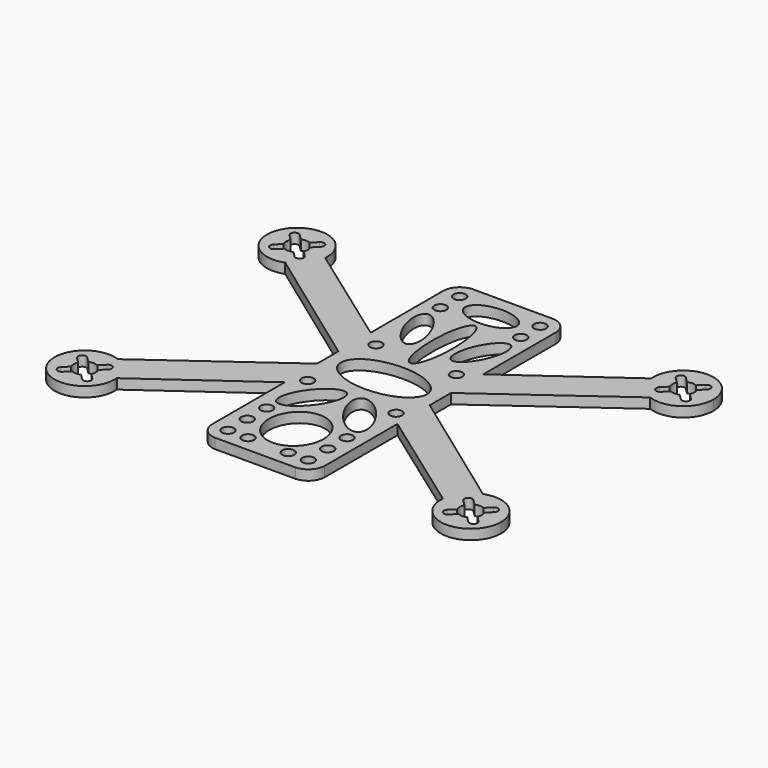
from build123d import *

# Parameters (mm, degrees)
F0_R     = 1.5
F1_DEPTH = 2.5


with BuildPart() as f1:
    # F0 (on Top) → F1 (new body)
    with BuildSketch(Plane.XY):
        with BuildLine():
            ThreePointArc((45.354794, 25.98196), (52.266788, 26.831976), (55.5, 33))
            ThreePointArc((55.5, 33), (47.680315, 40.493184), (40.527253, 32.361211))
            ThreePointArc((40.527253, 32.361211), (42.019452, 28.47418), (45.354794, 25.98196))
        make_face()
        with BuildLine():
            ThreePointArc((50.518529, 34.104315), (50.69151, 33.564157), (50.75, 33))
            ThreePointArc((50.75, 33), (50.69151, 32.435843), (50.518529, 31.895685))
            Line((50.518529, 31.895685), (51.889087, 30.525126))
            ThreePointArc((51.889087, 30.525126), (52.10586, 30.200703), (52.181981, 29.818019))
            ThreePointArc((52.181981, 29.818019), (51.564664, 28.89414), (50.474874, 29.110913))
            Line((50.474874, 29.110913), (49.104315, 30.481471))
            ThreePointArc((49.104315, 30.481471), (48, 30.25), (46.895685, 30.481471))
            Line((46.895685, 30.481471), (45.525126, 29.110913))
            ThreePointArc((45.525126, 29.110913), (44.110913, 29.110913), (44.110913, 30.525126))
            Line((44.110913, 30.525126), (45.481471, 31.895685))
            ThreePointArc((45.481471, 31.895685), (45.25, 33), (45.481471, 34.104315))
            Line((45.481471, 34.104315), (44.110913, 35.474874))
            ThreePointArc((44.110913, 35.474874), (44.110913, 36.889087), (45.525126, 36.889087))
            Line((45.525126, 36.889087), (46.895685, 35.518529))
            ThreePointArc((46.895685, 35.518529), (48, 35.75), (49.104315, 35.518529))
            Line((49.104315, 35.518529), (50.474874, 36.889087))
            ThreePointArc((50.474874, 36.889087), (51.564664, 37.10586), (52.181981, 36.181981))
            ThreePointArc((52.181981, 36.181981), (52.10586, 35.799297), (51.889087, 35.474874))
            Line((51.889087, 35.474874), (50.518529, 34.104315))
        make_face(mode=Mode.SUBTRACT)
        with BuildLine():
            ThreePointArc((45.354794, 25.98196), (42.019452, 28.47418), (40.527253, 32.361211))
            Line((40.527253, 32.361211), (14, 13.340587))
            Line((14, 13.340587), (14, 3.308062))
            Line((14, 3.308062), (45.354794, 25.98196))
        make_face()
        with BuildLine():
            Line((14, 3.308062), (14, 13.340587))
            Line((14, 13.340587), (14, 36))
            ThreePointArc((14, 36), (12.779371, 38.779371), (10, 40))
            Line((10, 40), (-10, 40))
            ThreePointArc((-10, 40), (-12.779371, 38.779371), (-14, 36))
            Line((-14, 36), (-14, 13.340587))
            Line((-14, 13.340587), (-14, 3.308062))
            Line((-14, 3.308062), (-14, -3.308062))
            Line((-14, -3.308062), (-14, -13.340587))
            Line((-14, -13.340587), (-14, -36))
            ThreePointArc((-14, -36), (-12.779371, -38.779371), (-10, -40))
            Line((-10, -40), (10, -40))
            ThreePointArc((10, -40), (12.779371, -38.779371), (14, -36))
            Line((14, -36), (14, -13.340587))
            Line((14, -13.340587), (14, -3.308062))
            Line((14, -3.308062), (14, 3.308062))
        make_face()
        with Locations((-10, -36)):
            Circle(F0_R, mode=Mode.SUBTRACT)
        with Locations((-5, -36)):
            Circle(F0_R, mode=Mode.SUBTRACT)
        with Locations((-10, -30)):
            Circle(F0_R, mode=Mode.SUBTRACT)
        with Locations((-10, -24)):
            Circle(F0_R, mode=Mode.SUBTRACT)
        with BuildLine():
            add(Edge.make_bspline(
                [(-1.79554, -9.31072), (-6.273685, -6.057535), (-10.297803, -16.30567), (-14.321922, -26.553804), (-5.819658, -19.558855), (2.682605, -12.563906), (-1.79554, -9.31072)],
                knots=[0, 0, 0, 2.094395, 2.094395, 4.18879, 4.18879, 6.283185, 6.283185, 6.283185], degree=2, weights=[1, 0.5, 1, 0.5, 1, 0.5, 1]))
        make_face(mode=Mode.SUBTRACT)
        with Locations((-11, -10)):
            Circle(F0_R, mode=Mode.SUBTRACT)
        with Locations((5, -36)):
            Circle(F0_R, mode=Mode.SUBTRACT)
        with Locations((10, -36)):
            Circle(F0_R, mode=Mode.SUBTRACT)
        with BuildLine():
            add(Edge.make_bspline(
                [(6.788831, -27.235288), (6.788831, -14.395384), (-3.394416, -20.815336), (-13.577662, -27.235288), (-3.394416, -33.65524), (6.788831, -40.075193), (6.788831, -27.235288)],
                knots=[4.712389, 4.712389, 4.712389, 6.806784, 6.806784, 8.901179, 8.901179, 10.995574, 10.995574, 10.995574], degree=2, weights=[1, 0.5, 1, 0.5, 1, 0.5, 1]))
        make_face(mode=Mode.SUBTRACT)
        with Locations((10, -30)):
            Circle(F0_R, mode=Mode.SUBTRACT)
        with Locations((10, -24)):
            Circle(F0_R, mode=Mode.SUBTRACT)
        with BuildLine():
            add(Edge.make_bspline(
                [(1.79554, -9.31072), (-2.682605, -12.563906), (5.819658, -19.558855), (14.321922, -26.553804), (10.297803, -16.30567), (6.273685, -6.057535), (1.79554, -9.31072)],
                knots=[0, 0, 0, 2.094395, 2.094395, 4.18879, 4.18879, 6.283185, 6.283185, 6.283185], degree=2, weights=[1, 0.5, 1, 0.5, 1, 0.5, 1]))
        make_face(mode=Mode.SUBTRACT)
        with Locations((11, -10)):
            Circle(F0_R, mode=Mode.SUBTRACT)
        with Locations((-10, 10)):
            Circle(F0_R, mode=Mode.SUBTRACT)
        with BuildLine():
            add(Edge.make_bspline(
                [(-5.39016, 14.111461), (-0.944623, 15.960206), (-6.959476, 24.154372), (-12.974329, 32.348538), (-11.405013, 22.305627), (-9.835696, 12.262716), (-5.39016, 14.111461)],
                knots=[0, 0, 0, 2.094395, 2.094395, 4.18879, 4.18879, 6.283185, 6.283185, 6.283185], degree=2, weights=[1, 0.5, 1, 0.5, 1, 0.5, 1]))
        make_face(mode=Mode.SUBTRACT)
        with Locations((-10, 30)):
            Circle(F0_R, mode=Mode.SUBTRACT)
        with Locations((-10, 36)):
            Circle(F0_R, mode=Mode.SUBTRACT)
        with BuildLine():
            add(Edge.make_bspline(
                [(10.696761, 0), (10.696761, 10.118247), (-5.348381, 5.059123), (-21.393523, 0), (-5.348381, -5.059123), (10.696761, -10.118247), (10.696761, 0)],
                knots=[0, 0, 0, 2.094395, 2.094395, 4.18879, 4.18879, 6.283185, 6.283185, 6.283185], degree=2, weights=[1, 0.5, 1, 0.5, 1, 0.5, 1]))
        make_face(mode=Mode.SUBTRACT)
        with Locations((10, 10)):
            Circle(F0_R, mode=Mode.SUBTRACT)
        with BuildLine():
            add(Edge.make_bspline(
                [(0, 28.200995), (-4.545, 28.200995), (-2.2725, 13.200995), (0, -1.799005), (2.2725, 13.200995), (4.545, 28.200995), (0, 28.200995)],
                knots=[0, 0, 0, 2.094395, 2.094395, 4.18879, 4.18879, 6.283185, 6.283185, 6.283185], degree=2, weights=[1, 0.5, 1, 0.5, 1, 0.5, 1]))
        make_face(mode=Mode.SUBTRACT)
        with BuildLine():
            add(Edge.make_bspline(
                [(5.39016, 14.111461), (9.835696, 12.262716), (11.405013, 22.305627), (12.974329, 32.348538), (6.959476, 24.154372), (0.944623, 15.960206), (5.39016, 14.111461)],
                knots=[0, 0, 0, 2.094395, 2.094395, 4.18879, 4.18879, 6.283185, 6.283185, 6.283185], degree=2, weights=[1, 0.5, 1, 0.5, 1, 0.5, 1]))
        make_face(mode=Mode.SUBTRACT)
        with Locations((10, 30)):
            Circle(F0_R, mode=Mode.SUBTRACT)
        with BuildLine():
            add(Edge.make_bspline(
                [(6.402156, 33.217929), (6.402156, 39.330967), (-3.201078, 36.274448), (-12.804313, 33.217929), (-3.201078, 30.161411), (6.402156, 27.104892), (6.402156, 33.217929)],
                knots=[0, 0, 0, 2.094395, 2.094395, 4.18879, 4.18879, 6.283185, 6.283185, 6.283185], degree=2, weights=[1, 0.5, 1, 0.5, 1, 0.5, 1]))
        make_face(mode=Mode.SUBTRACT)
        with Locations((10, 36)):
            Circle(F0_R, mode=Mode.SUBTRACT)
        with BuildLine():
            Line((45.354794, -25.98196), (14, -3.308062))
            Line((14, -3.308062), (14, -13.340587))
            Line((14, -13.340587), (40.527253, -32.361211))
            ThreePointArc((40.527253, -32.361211), (42.019452, -28.47418), (45.354794, -25.98196))
        make_face()
        with BuildLine():
            ThreePointArc((55.5, -33), (52.266788, -26.831976), (45.354794, -25.98196))
            ThreePointArc((45.354794, -25.98196), (42.019452, -28.47418), (40.527253, -32.361211))
            ThreePointArc((40.527253, -32.361211), (47.680315, -40.493184), (55.5, -33))
        make_face()
        with BuildLine():
            ThreePointArc((50.518529, -31.895685), (50.69151, -32.435843), (50.75, -33))
            ThreePointArc((50.75, -33), (50.69151, -33.564157), (50.518529, -34.104315))
            Line((50.518529, -34.104315), (51.889087, -35.474874))
            ThreePointArc((51.889087, -35.474874), (52.10586, -35.799297), (52.181981, -36.181981))
            ThreePointArc((52.181981, -36.181981), (51.564664, -37.10586), (50.474874, -36.889087))
            Line((50.474874, -36.889087), (49.104315, -35.518529))
            ThreePointArc((49.104315, -35.518529), (48, -35.75), (46.895685, -35.518529))
            Line((46.895685, -35.518529), (45.525126, -36.889087))
            ThreePointArc((45.525126, -36.889087), (44.110913, -36.889087), (44.110913, -35.474874))
            Line((44.110913, -35.474874), (45.481471, -34.104315))
            ThreePointArc((45.481471, -34.104315), (45.25, -33), (45.481471, -31.895685))
            Line((45.481471, -31.895685), (44.110913, -30.525126))
            ThreePointArc((44.110913, -30.525126), (44.110913, -29.110913), (45.525126, -29.110913))
            Line((45.525126, -29.110913), (46.895685, -30.481471))
            ThreePointArc((46.895685, -30.481471), (48, -30.25), (49.104315, -30.481471))
            Line((49.104315, -30.481471), (50.474874, -29.110913))
            ThreePointArc((50.474874, -29.110913), (51.564664, -28.89414), (52.181981, -29.818019))
            ThreePointArc((52.181981, -29.818019), (52.10586, -30.200703), (51.889087, -30.525126))
            Line((51.889087, -30.525126), (50.518529, -31.895685))
        make_face(mode=Mode.SUBTRACT)
        with BuildLine():
            Line((-14, 3.308062), (-14, 13.340587))
            Line((-14, 13.340587), (-40.527253, 32.361211))
            ThreePointArc((-40.527253, 32.361211), (-42.019452, 28.47418), (-45.354794, 25.98196))
            Line((-45.354794, 25.98196), (-14, 3.308062))
        make_face()
        with BuildLine():
            ThreePointArc((-45.354794, 25.98196), (-42.019452, 28.47418), (-40.527253, 32.361211))
            ThreePointArc((-40.527253, 32.361211), (-40.506816, 32.680315), (-40.5, 33))
            ThreePointArc((-40.5, 33), (-54.168024, 37.266788), (-45.354794, 25.98196))
        make_face()
        with BuildLine():
            ThreePointArc((-45.481471, 34.104315), (-45.30849, 33.564157), (-45.25, 33))
            ThreePointArc((-45.25, 33), (-45.30849, 32.435843), (-45.481471, 31.895685))
            Line((-45.481471, 31.895685), (-44.110913, 30.525126))
            ThreePointArc((-44.110913, 30.525126), (-43.89414, 30.200703), (-43.818019, 29.818019))
            ThreePointArc((-43.818019, 29.818019), (-44.435336, 28.89414), (-45.525126, 29.110913))
            Line((-45.525126, 29.110913), (-46.895685, 30.481471))
            ThreePointArc((-46.895685, 30.481471), (-48, 30.25), (-49.104315, 30.481471))
            Line((-49.104315, 30.481471), (-50.474874, 29.110913))
            ThreePointArc((-50.474874, 29.110913), (-51.889087, 29.110913), (-51.889087, 30.525126))
            Line((-51.889087, 30.525126), (-50.518529, 31.895685))
            ThreePointArc((-50.518529, 31.895685), (-50.75, 33), (-50.518529, 34.104315))
            Line((-50.518529, 34.104315), (-51.889087, 35.474874))
            ThreePointArc((-51.889087, 35.474874), (-51.889087, 36.889087), (-50.474874, 36.889087))
            Line((-50.474874, 36.889087), (-49.104315, 35.518529))
            ThreePointArc((-49.104315, 35.518529), (-48, 35.75), (-46.895685, 35.518529))
            Line((-46.895685, 35.518529), (-45.525126, 36.889087))
            ThreePointArc((-45.525126, 36.889087), (-44.435336, 37.10586), (-43.818019, 36.181981))
            ThreePointArc((-43.818019, 36.181981), (-43.89414, 35.799297), (-44.110913, 35.474874))
            Line((-44.110913, 35.474874), (-45.481471, 34.104315))
        make_face(mode=Mode.SUBTRACT)
        with BuildLine():
            Line((-14, -13.340587), (-14, -3.308062))
            Line((-14, -3.308062), (-45.354794, -25.98196))
            ThreePointArc((-45.354794, -25.98196), (-42.019452, -28.47418), (-40.527253, -32.361211))
            Line((-40.527253, -32.361211), (-14, -13.340587))
        make_face()
        with BuildLine():
            ThreePointArc((-40.527253, -32.361211), (-42.019452, -28.47418), (-45.354794, -25.98196))
            ThreePointArc((-45.354794, -25.98196), (-54.168024, -37.266788), (-40.5, -33))
            ThreePointArc((-40.5, -33), (-40.506816, -32.680315), (-40.527253, -32.361211))
        make_face()
        with BuildLine():
            ThreePointArc((-45.481471, -31.895685), (-45.30849, -32.435843), (-45.25, -33))
            ThreePointArc((-45.25, -33), (-45.30849, -33.564157), (-45.481471, -34.104315))
            Line((-45.481471, -34.104315), (-44.110913, -35.474874))
            ThreePointArc((-44.110913, -35.474874), (-43.89414, -35.799297), (-43.818019, -36.181981))
            ThreePointArc((-43.818019, -36.181981), (-44.435336, -37.10586), (-45.525126, -36.889087))
            Line((-45.525126, -36.889087), (-46.895685, -35.518529))
            ThreePointArc((-46.895685, -35.518529), (-48, -35.75), (-49.104315, -35.518529))
            Line((-49.104315, -35.518529), (-50.474874, -36.889087))
            ThreePointArc((-50.474874, -36.889087), (-51.889087, -36.889087), (-51.889087, -35.474874))
            Line((-51.889087, -35.474874), (-50.518529, -34.104315))
            ThreePointArc((-50.518529, -34.104315), (-50.75, -33), (-50.518529, -31.895685))
            Line((-50.518529, -31.895685), (-51.889087, -30.525126))
            ThreePointArc((-51.889087, -30.525126), (-51.889087, -29.110913), (-50.474874, -29.110913))
            Line((-50.474874, -29.110913), (-49.104315, -30.481471))
            ThreePointArc((-49.104315, -30.481471), (-48, -30.25), (-46.895685, -30.481471))
            Line((-46.895685, -30.481471), (-45.525126, -29.110913))
            ThreePointArc((-45.525126, -29.110913), (-44.435336, -28.89414), (-43.818019, -29.818019))
            ThreePointArc((-43.818019, -29.818019), (-43.89414, -30.200703), (-44.110913, -30.525126))
            Line((-44.110913, -30.525126), (-45.481471, -31.895685))
        make_face(mode=Mode.SUBTRACT)
    extrude(amount=F1_DEPTH)


solid = f1.part
